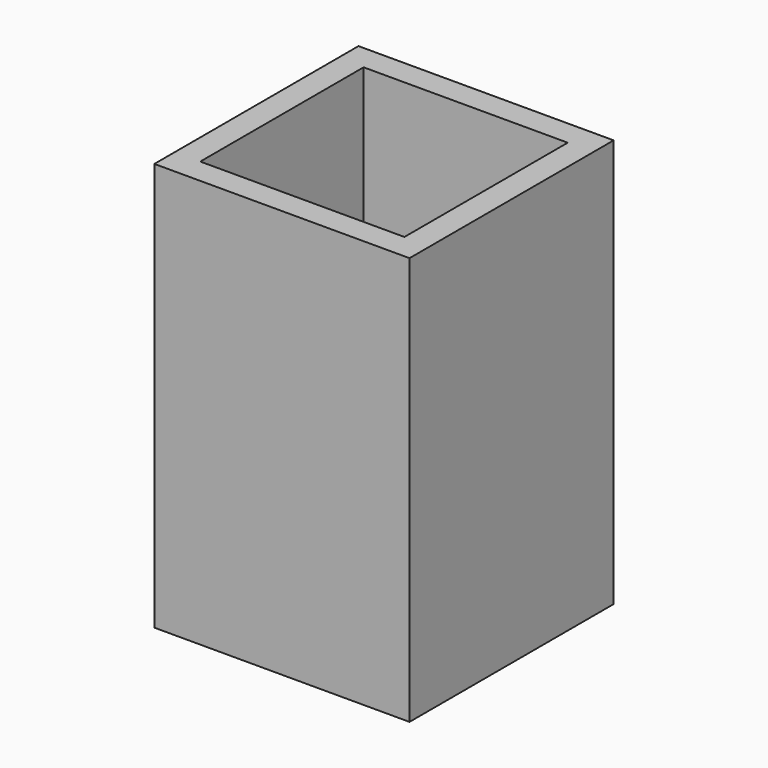
from build123d import *

# Parameters (mm, degrees)
BOX001_W     = 40
BOX001_H     = 40
BOX001_DEPTH = 80
BOX_W        = 50
BOX_H        = 50
BOX_DEPTH    = 80


with BuildPart() as obj1:
    # Box001 → Box001 (new body)
    with BuildSketch(Plane(origin=(5, 5, 2), x_dir=(1, 0, 0), z_dir=(0, 0, 1))):
        with Locations((20, 20)):
            Rectangle(BOX001_W, BOX001_H)
    extrude(amount=BOX001_DEPTH)


with BuildPart() as cut:
    # Box → Box (new body)
    with BuildSketch(Plane.XY):
        with Locations((25, 25)):
            Rectangle(BOX_W, BOX_H)
    extrude(amount=BOX_DEPTH)

    # Cut: cut obj1
    add(obj1.part, mode=Mode.SUBTRACT)


solid = cut.part
